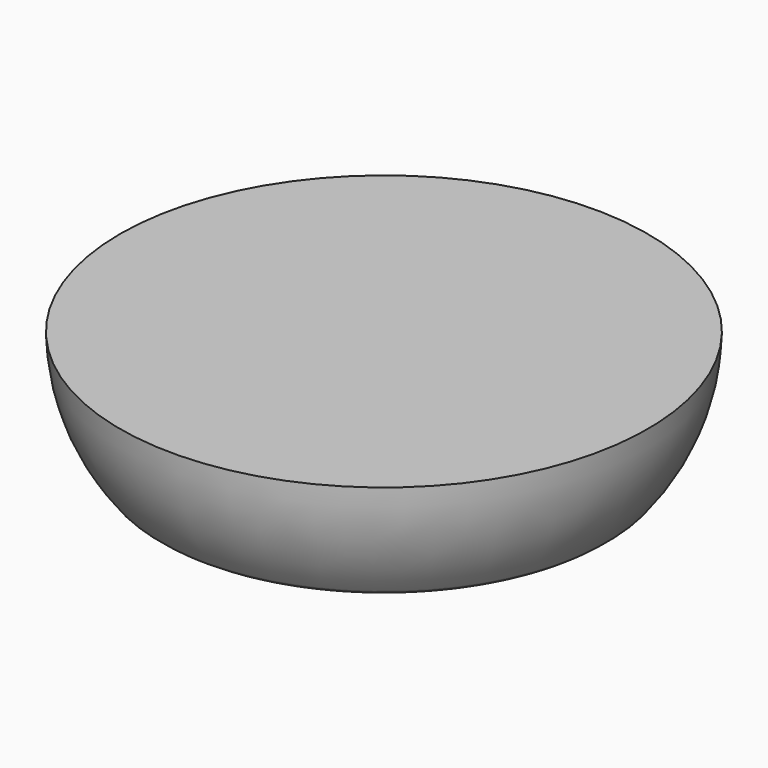
from build123d import *

# Parameters (mm, degrees)
F3_R = 2


with BuildPart() as f2:
    # F1 (on Front) → F2 (revolve)
    with BuildSketch(Plane.XZ):
        with BuildLine():
            Line((0, -19.921176), (0, 0))
            Line((0, 0), (-45, 0))
            ThreePointArc((-45, 0), (-42.980986, -10.612276), (-37.5, -19.921176))
            Line((-37.5, -19.921176), (0, -19.921176))
        make_face()
    revolve(axis=Axis((0, 0, -9.960588), (0, 0, -1)))

    # F3
    f3_edges = [f2.edges().sort_by_distance(p)[0] for p in [
        (37.5, 0, -19.921176),
    ]]
    fillet(f3_edges, radius=F3_R)


solid = f2.part
